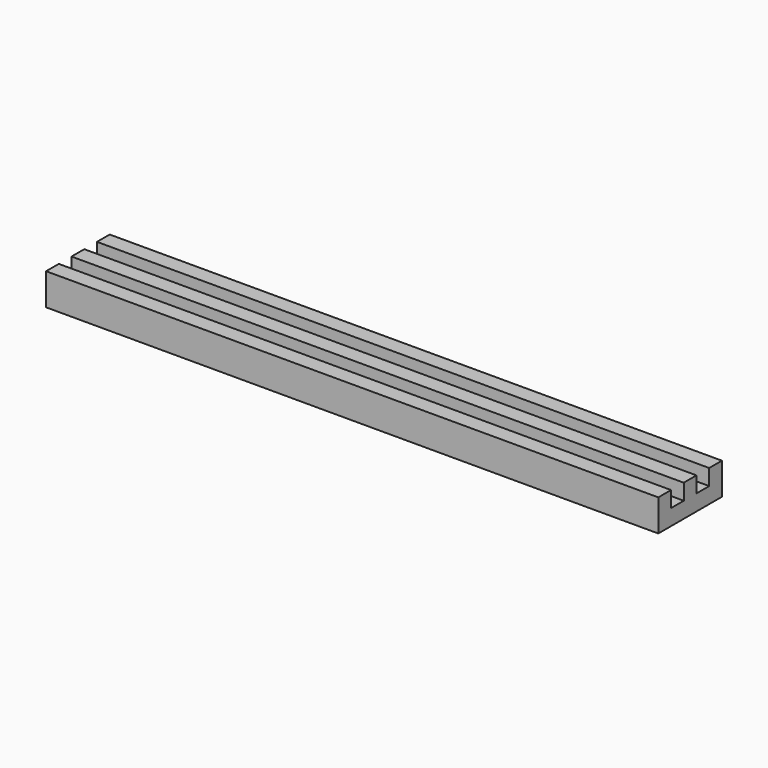
from build123d import *

# Parameters (mm, degrees)
BOX010_W     = 77
BOX010_H     = 2
BOX010_DEPTH = 2
BOX011_W     = 77
BOX011_H     = 2
BOX011_DEPTH = 2
BOX009_W     = 77
BOX009_H     = 2
BOX009_DEPTH = 2
BOX008_W     = 77
BOX008_H     = 10
BOX008_DEPTH = 2


with BuildPart() as cube010:
    # Box010 → Box010 (new body)
    with BuildSketch(Plane(origin=(5.5, 104, 12), x_dir=(1, 0, 0), z_dir=(0, 0, 1))):
        with Locations((38.5, 1)):
            Rectangle(BOX010_W, BOX010_H)
    extrude(amount=BOX010_DEPTH)


with BuildPart() as cube011:
    # Box011 → Box011 (new body)
    with BuildSketch(Plane(origin=(5.5, 108, 12), x_dir=(1, 0, 0), z_dir=(0, 0, 1))):
        with Locations((38.5, 1)):
            Rectangle(BOX011_W, BOX011_H)
    extrude(amount=BOX011_DEPTH)


with BuildPart() as cube009:
    # Box009 → Box009 (new body)
    with BuildSketch(Plane(origin=(5.5, 112, 12), x_dir=(1, 0, 0), z_dir=(0, 0, 1))):
        with Locations((38.5, 1)):
            Rectangle(BOX009_W, BOX009_H)
    extrude(amount=BOX009_DEPTH)


with BuildPart() as fusion:
    # Box008 → Box008 (new body)
    with BuildSketch(Plane(origin=(5.5, 104, 10), x_dir=(1, 0, 0), z_dir=(0, 0, 1))):
        with Locations((38.5, 5)):
            Rectangle(BOX008_W, BOX008_H)
    extrude(amount=BOX008_DEPTH)

    # Fusion: union Cube010, Cube011, Cube009
    add(cube010.part)
    add(cube011.part)
    add(cube009.part)


with BuildPart() as fusion_1:
    # Fusion placement: moved
    add(fusion.part.moved(Location((0, -100, 0))))


solid = fusion_1.part
